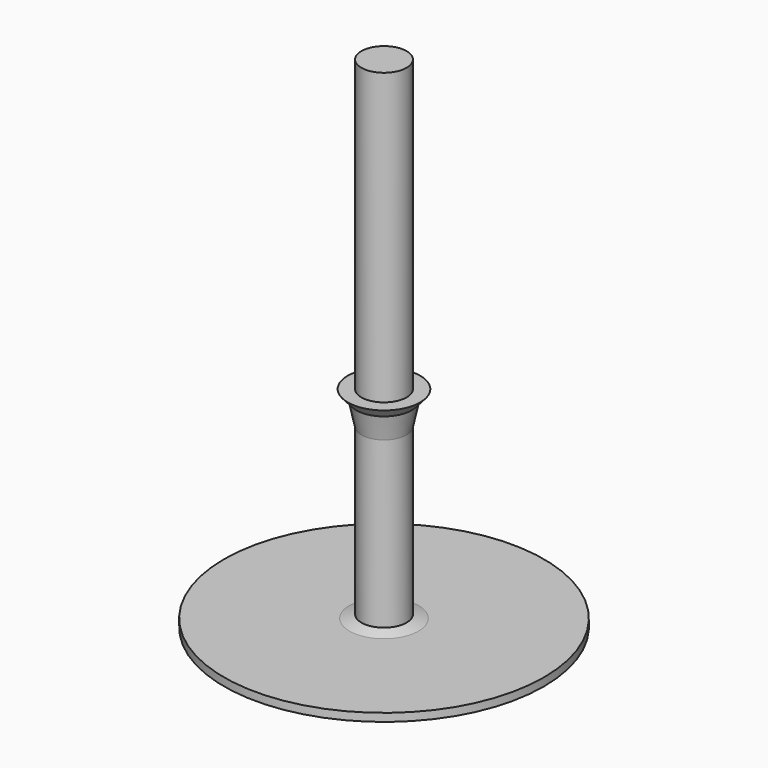
from build123d import *


with BuildPart() as f1:
    # F0 (on Front) → F1 (revolve)
    with BuildSketch(Plane.XZ):
        Polygon((-40, 0), (0, 0), (0, 2), (0, 125), (-5.65, 125), (-5.65, 58.652606), (-5.65, 52.451244), (-5.65, 44.160105), (-5.65, 2.87008), (-8.658974, 2), (-19.77366, 2), (-40, 2), align=None)
        Polygon((-5.65, 44.160105), (-5.65, 52.451244), (-9.05, 52.451244), (-6.918347, 50.01983), align=None)
    revolve(axis=Axis((0, 0, 63.5), (0, 0, 1)))


solid = f1.part
